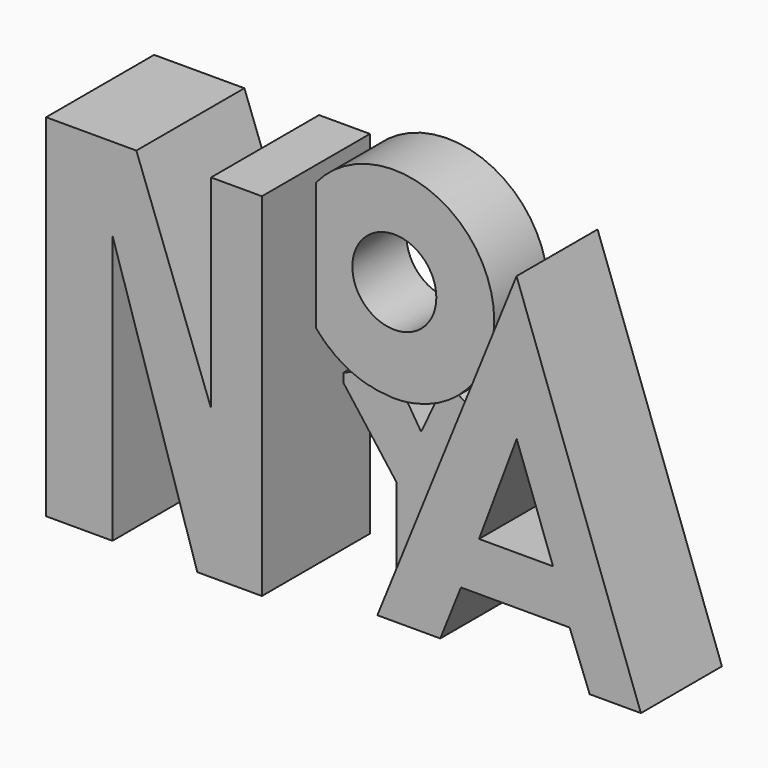
from build123d import *

# Parameters (mm, degrees)
F6_DEPTH  = 20
F7_DEPTH  = 5
F2_R      = 14.8981709713
F8_DEPTH  = 10
F9_DEPTH  = 15
F5_R      = 6.2195311323
F10_DEPTH = 20.001


with BuildPart() as f6:
    # F1 (on Front) → F6 (new body)
    with BuildSketch(Plane.XZ):
        Polygon((-29.4090751559, 23.7889681011), (-29.4090751559, -28.2321553677), (-19.5761136711, -28.2358180233), (-19.5761136711, 11.5612922236), (-7.0128426887, -28.2359085977), (2.5514548179, -28.2359085977), (2.5514548179, 23.8814018667), (-4.9865087494, 23.8814018667), (-4.9865087494, -6.1893938109), (-16.0414669663, 23.7889681011), align=None)
    extrude(amount=F6_DEPTH)



with BuildPart() as f7:
    # F3 (on Front) → F7 (new body)
    with BuildSketch(Plane.XZ):
        Polygon((10.5204042047, -2.2638426162), (8.7501741946, -1.767860345), (8.7501741946, -2.6882454621), (2.6086692233, -5.1982523873), (2.6086692233, -6.4965714701), (10.4526793584, -16.883123666), (10.4526793584, -30.7555552572), (18.1284062564, -30.7555552572), (18.1284062564, -16.9692430645), (24.9908941437, -5.8241511643), (18.8475046307, -2.0414155442), (18.2504130668, -1.177824098), (17.1879893938, -1.9123892853), (17.4144990742, -2.239997033), (14.0946339816, -9.1059375554), (10.1119214669, -2.7744469699), align=None)
    extrude(amount=F7_DEPTH)


with BuildPart() as f6_1:
    add(f6.part)

    add(f7.part)  # F8 merges F7
    # F2 (on Front) → F8 (join)
    with BuildSketch(Plane.XZ):
        with Locations((14.0610327944, 12.1286660433)):
            Circle(F2_R)
    extrude(amount=F8_DEPTH)

    # F4 (on Front) → F9 (join)
    with BuildSketch(Plane.XZ):
        Polygon((54.6711832285, -28.5867527127), (36.2575501204, 22.3937444389), (15.6466114905, -28.5145416856), (24.9638519287, -28.5145416856), (28.0255712569, -20.860247314), (44.1284738481, -20.860247314), (47.089099884, -28.5867527127), align=None)
    extrude(amount=F9_DEPTH)

    # F5 (on Front) + F0 (on Front) → F10 (cut, through all)
    with BuildSketch(Plane.XZ):
        Polygon((10.4725992623, -2.2513235357), (10.0927506823, -2.7248826654), (14.1619760543, -9.0967444703), (17.3306893557, -2.3522656411), (16.3500196487, -2.7850975748), (14.0968551859, -2.7850975748), (11.5571627393, -2.5246159639), align=None)
        with Locations((14.1619760543, 12.4046513811)):
            Circle(F5_R)
        Polygon((4.5241662301, 0.7314007962), (4.2605670169, 0.7808398308), (4.2605670169, -4.4249454513), (8.7323186063, -2.633718365), (8.7323186063, -1.8077495305), (7.9755438492, -1.6129313735), (6.1521744356, -0.636126264), align=None)
    with BuildSketch(Plane.XZ):
        Polygon((30.7015124708, -13.6729935011), (41.6589528322, -13.6729935011), (36.2836048007, 1.1847094047), align=None)
    extrude(amount=F10_DEPTH, mode=Mode.SUBTRACT)


solid = f6_1.part
